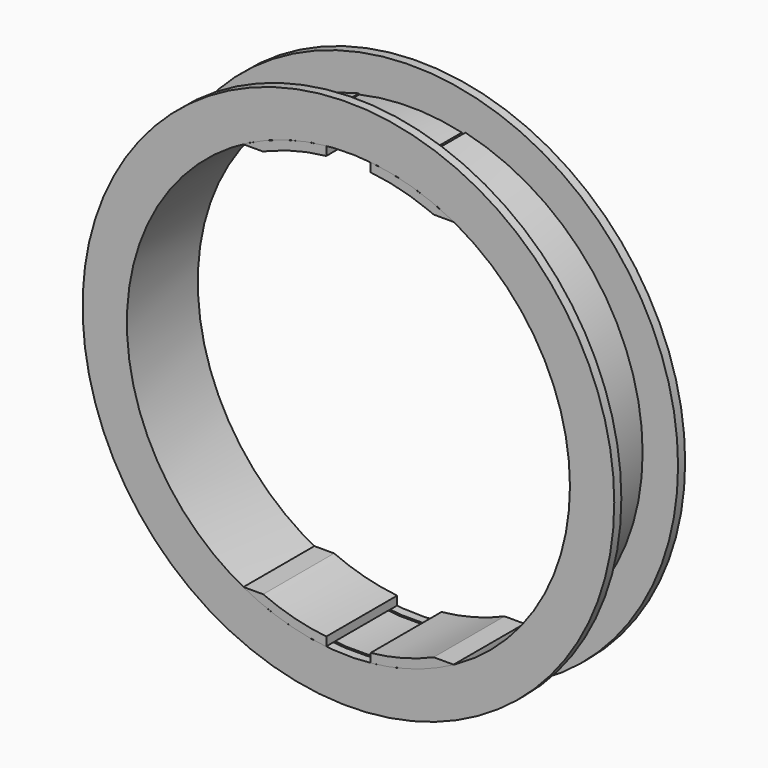
from build123d import *

# Parameters (mm, degrees)
F0_R     = 76.2
F0_R_2   = 63.5
F1_DEPTH = 12.7
F3_T     = -2.54
F2_W     = 15.24
F2_H     = 20.32
F4_DEPTH = 66.04
F6_DEPTH = 9.525
F8_DEPTH = 12.7


with BuildPart() as f1:
    # F0 (on Front) → F1 (new body, symmetric)
    with BuildSketch(Plane.XZ):
        Circle(F0_R)
        Circle(F0_R_2, mode=Mode.SUBTRACT)
    extrude(amount=F1_DEPTH, both=True)

    # F3
    f3_openings = [f1.faces().sort_by_distance(p)[0] for p in [
        (-76.2, 0, 0),
    ]]
    offset(amount=F3_T, openings=f3_openings)

    # F2 (on Top) → F4 (cut, symmetric)
    with BuildSketch(Plane.XY):
        with Locations((-7.62, 0)):
            Rectangle(F2_W, F2_H)
        with Locations((7.62, 0)):
            Rectangle(F2_W, F2_H)
    extrude(amount=F4_DEPTH, both=True, mode=Mode.SUBTRACT)


with BuildPart() as f6:
    # F5 (on Front) → F6 (new body, symmetric)
    with BuildSketch(Plane.XZ):
        with BuildLine():
            ThreePointArc((-14.6804592455, 61.7797225337), (0.0322033107, 63.4999918342), (14.7431134689, 61.7648006978))
            Line((14.7431134689, 61.7648006978), (14.7431134689, 64.3733035135))
            ThreePointArc((14.7431134689, 64.3733035135), (0.0321346281, 66.0399921818), (-14.6804592455, 64.3876208315))
            Line((-14.6804592455, 64.3876208315), (-14.6804592455, 61.7797225337))
        make_face()
    extrude(amount=F6_DEPTH, both=True)


with BuildPart() as f6b:
    # F5 (on Front) → F6, piece 2 (new body, symmetric)
    with BuildSketch(Plane.XZ):
        with BuildLine():
            Line((-14.9617508265, -61.7122031061), (-14.9617508265, -64.3228389626))
            ThreePointArc((-14.9617508265, -64.3228389626), (-0.0652215525, -66.0399677934), (14.834670357, -64.3522661248))
            Line((14.834670357, -64.3522661248), (14.834670357, -61.7428745314))
            ThreePointArc((14.834670357, -61.7428745314), (-0.0653647116, -63.4999663579), (-14.9617508265, -61.7122031061))
        make_face()
    extrude(amount=F6_DEPTH, both=True)


with BuildPart() as f8:
    # F7 (on Front) → F8 (new body, symmetric)
    with BuildSketch(Plane.XZ):
        with BuildLine():
            ThreePointArc((-6.35, -60.6283687724), (-15.575286476, -58.9366783183), (-24.431876042, -55.8498436262))
            Line((-24.431876042, -55.8498436262), (-30.2166339444, -55.8498436262))
            ThreePointArc((-30.2166339444, -55.8498436262), (-18.6726647382, -60.6925167675), (-6.4029763415, -63.1763554977))
            Line((-6.4029763415, -63.1763554977), (-6.35, -63.1315240057))
            Line((-6.35, -63.1315240057), (-6.35, -60.6283687724))
        make_face()
    extrude(amount=F8_DEPTH, both=True)


with BuildPart() as f8b:
    # F7 (on Front) → F8, piece 2 (new body, symmetric)
    with BuildSketch(Plane.XZ):
        with BuildLine():
            ThreePointArc((-23.1361730152, 56.3989281654), (-14.8939800501, 59.1125279299), (-6.35, 60.6283687724))
            Line((-6.35, 60.6283687724), (-6.35, 63.1315240057))
            Line((-6.35, 63.1315240057), (-6.4029763415, 63.1763554977))
            ThreePointArc((-6.4029763415, 63.1763554977), (-18.1108167509, 60.8625362322), (-29.1789462077, 56.3989281654))
            Line((-29.1789462077, 56.3989281654), (-23.1361730152, 56.3989281654))
        make_face()
        with BuildLine():
            ThreePointArc((-24.431876042, 55.8498436262), (-23.7856090154, 56.1281248909), (-23.1361730152, 56.3989281654))
            Line((-23.1361730152, 56.3989281654), (-29.1789462077, 56.3989281654))
            ThreePointArc((-29.1789462077, 56.3989281654), (-29.6990590568, 56.1267840798), (-30.2166339444, 55.8498436262))
            Line((-30.2166339444, 55.8498436262), (-24.431876042, 55.8498436262))
        make_face()
    extrude(amount=F8_DEPTH, both=True)


with BuildPart() as f8c:
    # F7 (on Front) → F8, piece 3 (new body, symmetric)
    with BuildSketch(Plane.XZ):
        with BuildLine():
            Line((6.4029763415, 63.1763554977), (6.35, 63.1315240057))
            Line((6.35, 63.1315240057), (6.35, 60.6283687724))
            ThreePointArc((6.35, 60.6283687724), (14.8939800501, 59.1125279299), (23.1361730152, 56.3989281654))
            Line((23.1361730152, 56.3989281654), (29.1789462077, 56.3989281654))
            ThreePointArc((29.1789462077, 56.3989281654), (18.1108167509, 60.8625362322), (6.4029763415, 63.1763554977))
        make_face()
        with BuildLine():
            Line((29.1789462077, 56.3989281654), (23.1361730152, 56.3989281654))
            ThreePointArc((23.1361730152, 56.3989281654), (23.7856090154, 56.1281248909), (24.431876042, 55.8498436262))
            Line((24.431876042, 55.8498436262), (30.2166339444, 55.8498436262))
            ThreePointArc((30.2166339444, 55.8498436262), (29.6990590568, 56.1267840798), (29.1789462077, 56.3989281654))
        make_face()
    extrude(amount=F8_DEPTH, both=True)


with BuildPart() as f8d:
    # F7 (on Front) → F8, piece 4 (new body, symmetric)
    with BuildSketch(Plane.XZ):
        with BuildLine():
            Line((6.35, -60.6283687724), (6.35, -63.1315240057))
            Line((6.35, -63.1315240057), (6.4029763415, -63.1763554977))
            ThreePointArc((6.4029763415, -63.1763554977), (18.6726647382, -60.6925167675), (30.2166339444, -55.8498436262))
            Line((30.2166339444, -55.8498436262), (24.431876042, -55.8498436262))
            ThreePointArc((24.431876042, -55.8498436262), (15.575286476, -58.9366783183), (6.35, -60.6283687724))
        make_face()
    extrude(amount=F8_DEPTH, both=True)


solid = Compound([f1.part, f6.part, f6b.part, f8.part, f8b.part, f8c.part, f8d.part])
